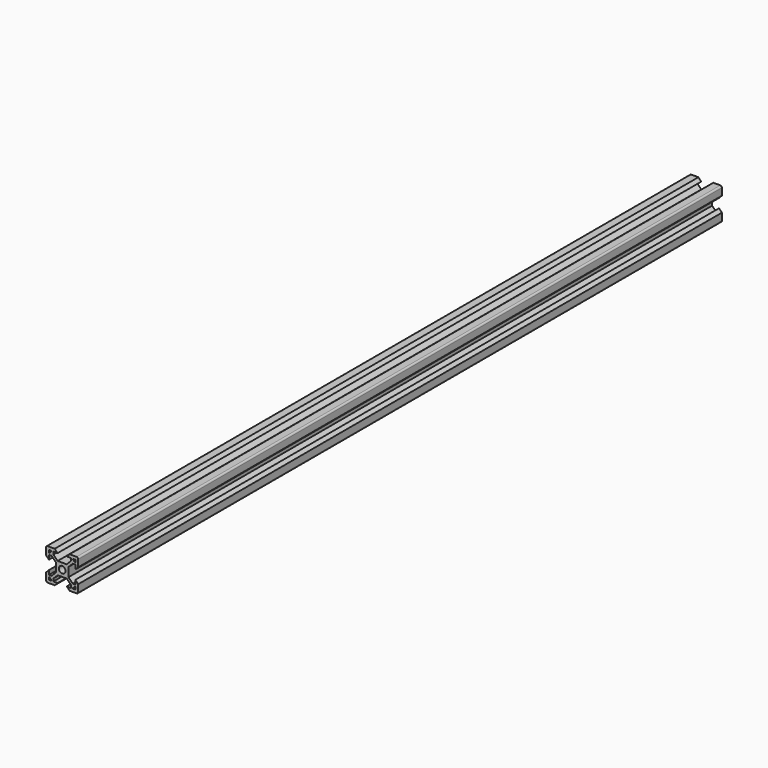
from build123d import *

# Parameters (mm, degrees)
F0_R     = 2.0955
F2_DEPTH = 500


with BuildPart() as f2:
    # F0 (on Front) → F2 (new body)
    with BuildSketch(Plane.XZ):
        with BuildLine():
            Line((-4.6246692655, 9.9949), (-9.0043, 9.9949))
            ThreePointArc((-9.0043, 9.9949), (-9.7047599774, 9.7047599774), (-9.9949, 9.0043))
            Line((-9.9949, 9.0043), (-9.9949, 4.6246692655))
            Line((-9.9949, 4.6246692655), (-8.1915, 2.8212692655))
            Line((-8.1915, 2.8212692655), (-8.1915, 5.4628692655))
            Line((-8.1915, 5.4628692655), (-6.5405, 5.4628692655))
            Line((-6.5405, 5.4628692655), (-3.8989, 2.8212692655))
            Line((-3.8989, 2.8212692655), (-3.8989, -2.8212692655))
            Line((-3.8989, -2.8212692655), (-6.5405, -5.4628692655))
            Line((-6.5405, -5.4628692655), (-8.1915, -5.4628692655))
            Line((-8.1915, -5.4628692655), (-8.1915, -2.8212692655))
            Line((-8.1915, -2.8212692655), (-9.9949, -4.6246692655))
            Line((-9.9949, -4.6246692655), (-9.9949, -9.0043))
            ThreePointArc((-9.9949, -9.0043), (-9.7047599774, -9.7047599774), (-9.0043, -9.9949))
            Line((-9.0043, -9.9949), (-4.6246692655, -9.9949))
            Line((-4.6246692655, -9.9949), (-2.8212692655, -8.1915))
            Line((-2.8212692655, -8.1915), (-5.4628692655, -8.1915))
            Line((-5.4628692655, -8.1915), (-5.4628692655, -6.5405))
            Line((-5.4628692655, -6.5405), (-2.8212692655, -3.8989))
            Line((-2.8212692655, -3.8989), (2.8212692655, -3.8989))
            Line((2.8212692655, -3.8989), (5.4628692655, -6.5405))
            Line((5.4628692655, -6.5405), (5.4628692655, -8.1915))
            Line((5.4628692655, -8.1915), (2.8212692655, -8.1915))
            Line((2.8212692655, -8.1915), (4.6246692655, -9.9949))
            Line((4.6246692655, -9.9949), (9.0043, -9.9949))
            ThreePointArc((9.0043, -9.9949), (9.7047599774, -9.7047599774), (9.9949, -9.0043))
            Line((9.9949, -9.0043), (9.9949, -4.6246692655))
            Line((9.9949, -4.6246692655), (8.1915, -2.8212692655))
            Line((8.1915, -2.8212692655), (8.1915, -5.4628692655))
            Line((8.1915, -5.4628692655), (6.5405, -5.4628692655))
            Line((6.5405, -5.4628692655), (3.8989, -2.8212692655))
            Line((3.8989, -2.8212692655), (3.8989, 2.8212692655))
            Line((3.8989, 2.8212692655), (6.5405, 5.4628692655))
            Line((6.5405, 5.4628692655), (8.1915, 5.4628692655))
            Line((8.1915, 5.4628692655), (8.1915, 2.8212692655))
            Line((8.1915, 2.8212692655), (9.9949, 4.6246692655))
            Line((9.9949, 4.6246692655), (9.9949, 9.0043))
            ThreePointArc((9.9949, 9.0043), (9.7047599774, 9.7047599774), (9.0043, 9.9949))
            Line((9.0043, 9.9949), (4.6246692655, 9.9949))
            Line((4.6246692655, 9.9949), (2.8212692655, 8.1915))
            Line((2.8212692655, 8.1915), (5.4628692655, 8.1915))
            Line((5.4628692655, 8.1915), (5.4628692655, 6.5405))
            Line((5.4628692655, 6.5405), (2.8212692655, 3.8989))
            Line((2.8212692655, 3.8989), (-2.8212692655, 3.8989))
            Line((-2.8212692655, 3.8989), (-5.4628692655, 6.5405))
            Line((-5.4628692655, 6.5405), (-5.4628692655, 8.1915))
            Line((-5.4628692655, 8.1915), (-2.8212692655, 8.1915))
            Line((-2.8212692655, 8.1915), (-4.6246692655, 9.9949))
        make_face()
        with BuildLine():
            ThreePointArc((-8.0391, -8.1915), (-8.1468630735, -8.1468630735), (-8.1915, -8.0391))
            Line((-8.1915, -8.0391), (-8.1915, -6.6929))
            ThreePointArc((-8.1915, -6.6929), (-8.1468630735, -6.5851369265), (-8.0391, -6.5405))
            Line((-8.0391, -6.5405), (-7.9883, -6.5405))
            Line((-7.9883, -6.5405), (-6.5405, -7.9883))
            Line((-6.5405, -7.9883), (-6.5405, -8.0391))
            ThreePointArc((-6.5405, -8.0391), (-6.5851369265, -8.1468630735), (-6.6929, -8.1915))
            Line((-6.6929, -8.1915), (-8.0391, -8.1915))
        make_face(mode=Mode.SUBTRACT)
        with BuildLine():
            Line((8.1915, -6.6929), (8.1915, -8.0391))
            ThreePointArc((8.1915, -8.0391), (8.1468630735, -8.1468630735), (8.0391, -8.1915))
            Line((8.0391, -8.1915), (6.6929, -8.1915))
            ThreePointArc((6.6929, -8.1915), (6.5851369265, -8.1468630735), (6.5405, -8.0391))
            Line((6.5405, -8.0391), (6.5405, -7.9883))
            Line((6.5405, -7.9883), (7.9883, -6.5405))
            Line((7.9883, -6.5405), (8.0391, -6.5405))
            ThreePointArc((8.0391, -6.5405), (8.1468630735, -6.5851369265), (8.1915, -6.6929))
        make_face(mode=Mode.SUBTRACT)
        with BuildLine():
            Line((-7.9883, 6.5405), (-8.0391, 6.5405))
            ThreePointArc((-8.0391, 6.5405), (-8.1468630735, 6.5851369265), (-8.1915, 6.6929))
            Line((-8.1915, 6.6929), (-8.1915, 8.0391))
            ThreePointArc((-8.1915, 8.0391), (-8.1468630735, 8.1468630735), (-8.0391, 8.1915))
            Line((-8.0391, 8.1915), (-6.6929, 8.1915))
            ThreePointArc((-6.6929, 8.1915), (-6.5851369265, 8.1468630735), (-6.5405, 8.0391))
            Line((-6.5405, 8.0391), (-6.5405, 7.9883))
            Line((-6.5405, 7.9883), (-7.9883, 6.5405))
        make_face(mode=Mode.SUBTRACT)
        Circle(F0_R, mode=Mode.SUBTRACT)
        with BuildLine():
            ThreePointArc((8.1915, 6.6929), (8.1468630735, 6.5851369265), (8.0391, 6.5405))
            Line((8.0391, 6.5405), (7.9883, 6.5405))
            Line((7.9883, 6.5405), (6.5405, 7.9883))
            Line((6.5405, 7.9883), (6.5405, 8.0391))
            ThreePointArc((6.5405, 8.0391), (6.5851369265, 8.1468630735), (6.6929, 8.1915))
            Line((6.6929, 8.1915), (8.0391, 8.1915))
            ThreePointArc((8.0391, 8.1915), (8.1468630735, 8.1468630735), (8.1915, 8.0391))
            Line((8.1915, 8.0391), (8.1915, 6.6929))
        make_face(mode=Mode.SUBTRACT)
    extrude(amount=F2_DEPTH)


solid = f2.part
